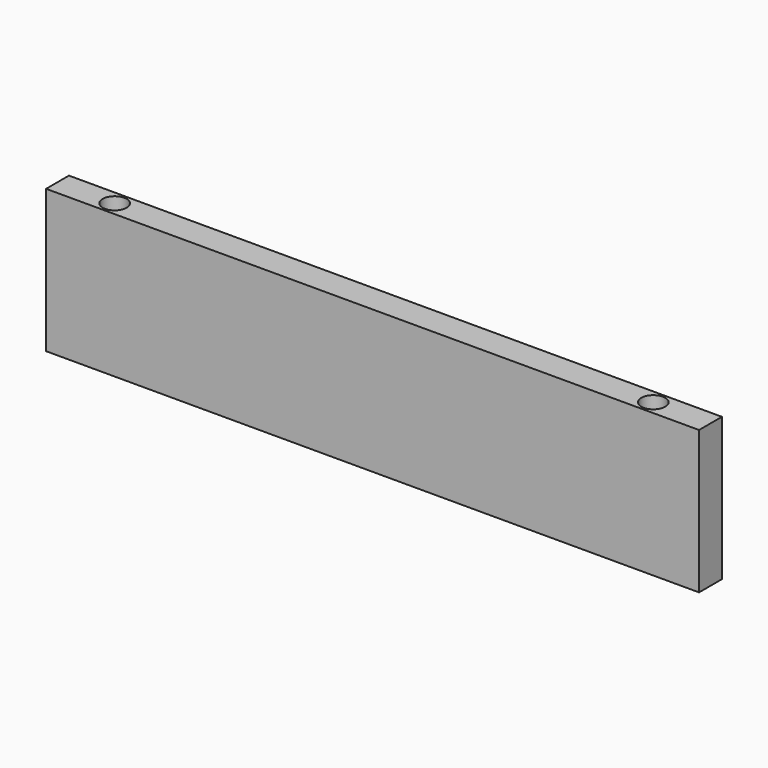
from build123d import *

# Parameters (mm, degrees)
F0_W     = 145
F0_H     = 31.75
F1_DEPTH = 6.35
F3_D     = 5.334
F3_DEPTH = 12.7
F3_TIP   = 1.6024952709


with BuildPart() as f1:
    # F0 (on Front) → F1 (new body)
    with BuildSketch(Plane.XZ):
        with Locations((72.5, 15.875)):
            Rectangle(F0_W, F0_H)
    extrude(amount=F1_DEPTH)

    # F3
    with Locations(Plane.XY.offset(31.75)):
        with Locations((12.7, -3.175), (132.3, -3.175)):
            Hole(F3_D / 2, depth=F3_DEPTH)
            with Locations((0, 0, -(F3_DEPTH + F3_TIP / 2))):  # 118° drill point
                Cone(0, F3_D / 2, F3_TIP, mode=Mode.SUBTRACT)


solid = f1.part
